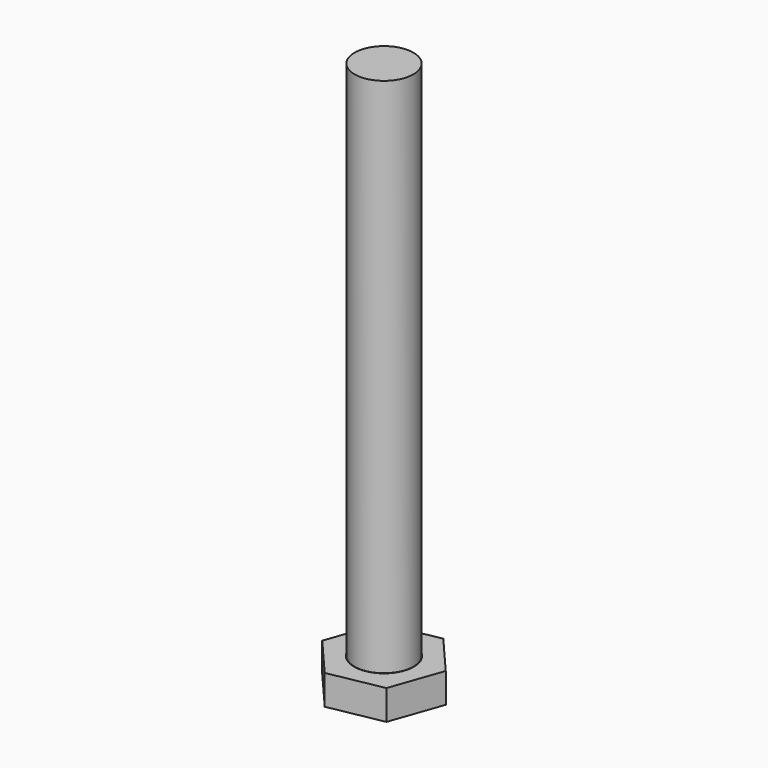
from build123d import *

# Parameters (mm, degrees)
F1_DEPTH = 2
F2_R     = 4
F3_DEPTH = 25
F4_R     = 3.95
F5_DEPTH = 70


with BuildPart() as f1:
    # F0 (on Top) → F1 (new body, symmetric)
    with BuildSketch(Plane.XY):
        Polygon((2.425009, 6.917242), (-4.778003, 5.55874), (-7.203011, -1.358502), (-2.425009, -6.917242), (4.778003, -5.55874), (7.203011, 1.358502), align=None)
    extrude(amount=F1_DEPTH, both=True)

    # F2 (on face) → F3 (cut)
    with BuildSketch(Plane.XY.offset(2)):
        Circle(F2_R)
    extrude(amount=-F3_DEPTH, mode=Mode.SUBTRACT)


with BuildPart() as f5:
    # F4 (on face) → F5 (new body)
    with BuildSketch(Plane.XY.offset(2)):
        Circle(F4_R)
    extrude(amount=F5_DEPTH)


solid = Compound([f1.part, f5.part])
